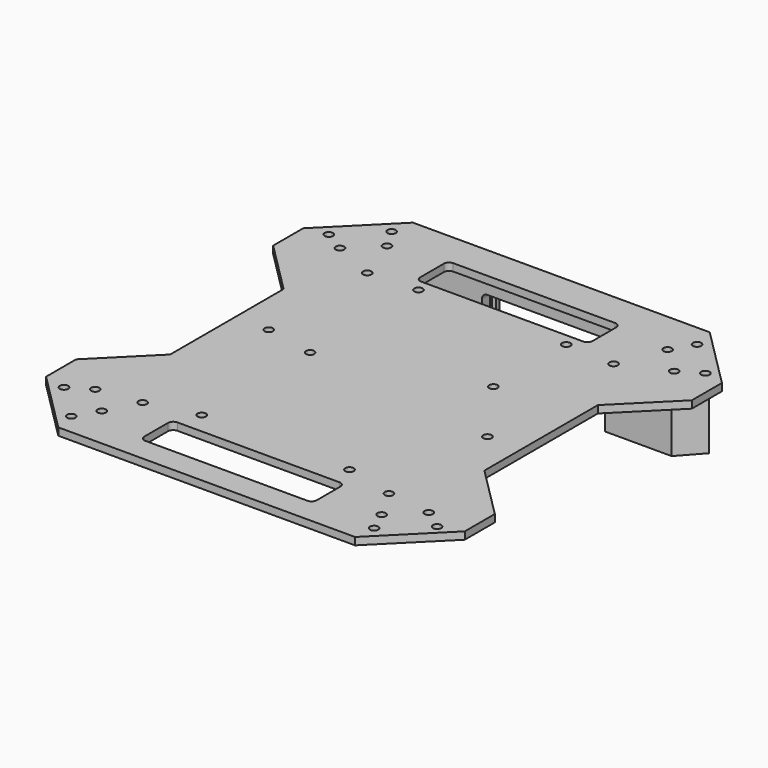
from build123d import *

# Parameters (mm, degrees)
PAD_DEPTH       = 3
PAD001_DEPTH    = 40.3
SKETCH001_R     = 1.7
HOLE_DEPTH      = 3.001
SKETCH003_R     = 1.7
HOLE001_DEPTH   = 3.001
POCKET_DEPTH    = 3.001
POCKET001_DEPTH = 195.001
SKETCH008_W     = 53
SKETCH008_H     = 3
POCKET002_DEPTH = 40.301
SKETCH009_R     = 1.7
HOLE003_DEPTH   = 3.001
POCKET003_DEPTH = 5


with BuildPart() as part:
    # Sketch → Pad (new body)
    with BuildSketch(Plane.XY):
        Polygon((15, 39.748737), (39.748737, 15), (160.251263, 15), (185, 39.748737), (185, 170.251263), (160.251263, 195), (39.748737, 195), (15, 170.251263), align=None)
    extrude(amount=PAD_DEPTH)

    # Sketch002 → Pad001 (join)
    with BuildSketch(Plane.XY):
        Polygon((40, 194.944272), (48, 186), (152, 186), (160, 194.944272), align=None)
    extrude(amount=-PAD001_DEPTH)

    # Sketch001 → Hole (cut, through all)
    with BuildSketch(Plane.XY):
        with Locations((32.599303, 42.704115)):
            Circle(SKETCH001_R)
        with Locations((43.5, 32.4)):
            Circle(SKETCH001_R)
        with Locations((24, 37.6)):
            Circle(SKETCH001_R)
        with Locations((38.184146, 23.5)):
            Circle(SKETCH001_R)
        with Locations((161.184146, 23.5)):
            Circle(SKETCH001_R)
        with Locations((176.084785, 36.840575)):
            Circle(SKETCH001_R)
        with Locations((167.984236, 42.704115)):
            Circle(SKETCH001_R)
        with Locations((168.148156, 167.066578)):
            Circle(SKETCH001_R)
        with Locations((157.247459, 177.370693)):
            Circle(SKETCH001_R)
        with Locations((162.300682, 186)):
            Circle(SKETCH001_R)
        with Locations((176.748001, 172.16978)):
            Circle(SKETCH001_R)
        with Locations((32.599303, 166.895885)):
            Circle(SKETCH001_R)
        with Locations((43.33608, 177.370693)):
            Circle(SKETCH001_R)
        with Locations((38.282857, 186)):
            Circle(SKETCH001_R)
        with Locations((24, 172)):
            Circle(SKETCH001_R)
        with Locations((157.247459, 32.229307)):
            Circle(SKETCH001_R)
    extrude(amount=HOLE_DEPTH, mode=Mode.SUBTRACT)

    # Sketch003 → Hole001 (cut, through all)
    with BuildSketch(Plane.XY):
        with Locations((70, 160)):
            Circle(SKETCH003_R)
        with Locations((130, 160)):
            Circle(SKETCH003_R)
        with Locations((70, 50)):
            Circle(SKETCH003_R)
        with Locations((130, 50)):
            Circle(SKETCH003_R)
        with Locations((70, 105)):
            Circle(SKETCH003_R)
        with Locations((130, 123)):
            Circle(SKETCH003_R)
    extrude(amount=HOLE001_DEPTH, mode=Mode.SUBTRACT)

    # Sketch006 → Pocket (cut, through all)
    with BuildSketch(Plane.XY):
        with BuildLine():
            Line((65, 179.12132), (65, 167.12132))
            ThreePointArc((65, 167.12132), (65.62132, 165.62132), (67.12132, 165))
            Line((67.12132, 165), (132.87868, 165))
            ThreePointArc((132.87868, 165), (134.37868, 165.62132), (135, 167.12132))
            Line((135, 167.12132), (135, 179.12132))
            ThreePointArc((135, 179.12132), (134.37868, 180.62132), (132.87868, 181.242641))
            Line((132.87868, 181.242641), (67.12132, 181.242641))
            ThreePointArc((67.12132, 181.242641), (65.62132, 180.62132), (65, 179.12132))
        make_face()
        with BuildLine():
            Line((65, 39.12132), (65, 27.12132))
            ThreePointArc((65, 27.12132), (65.62132, 25.62132), (67.12132, 25))
            Line((67.12132, 25), (132.87868, 25))
            ThreePointArc((132.87868, 25), (134.37868, 25.62132), (135, 27.12132))
            Line((135, 27.12132), (135, 39.12132))
            ThreePointArc((135, 39.12132), (134.37868, 40.62132), (132.87868, 41.242641))
            Line((132.87868, 41.242641), (67.12132, 41.242641))
            ThreePointArc((67.12132, 41.242641), (65.62132, 40.62132), (65, 39.12132))
        make_face()
    extrude(amount=POCKET_DEPTH, mode=Mode.SUBTRACT)

    # Sketch007 → Pocket001 (cut, through all)
    with BuildSketch(Plane.XZ):
        with BuildLine():
            Line((75, -42), (125, -42))
            Line((125, -42), (125, -9.12132))
            ThreePointArc((125, -9.12132), (124.37868, -7.62132), (122.87868, -7))
            Line((122.87868, -7), (77.12132, -7))
            ThreePointArc((77.12132, -7), (75.62132, -7.62132), (75, -9.12132))
            Line((75, -9.12132), (75, -42))
        make_face()
    extrude(amount=-POCKET001_DEPTH, mode=Mode.SUBTRACT)

    # Sketch008 → Pocket002 (cut, through all)
    with BuildSketch(Plane.XY):
        with Locations((100, 191.5)):
            Rectangle(SKETCH008_W, SKETCH008_H)
    extrude(amount=-POCKET002_DEPTH, mode=Mode.SUBTRACT)

    # Sketch009 → Hole003 (cut, through all)
    with BuildSketch(Plane.XY):
        with Locations((50, 45)):
            Circle(SKETCH009_R)
        with Locations((150, 45)):
            Circle(SKETCH009_R)
        with Locations((150, 95)):
            Circle(SKETCH009_R)
        with Locations((50, 109)):
            Circle(SKETCH009_R)
        with Locations((50, 159)):
            Circle(SKETCH009_R)
        with Locations((150, 159)):
            Circle(SKETCH009_R)
    extrude(amount=HOLE003_DEPTH, mode=Mode.SUBTRACT)

    # Sketch010 → Pocket003 (cut)
    with BuildSketch(Plane.XY):
        Polygon((15, 55), (36.213203, 76.213203), (36.213203, 133.786797), (15, 155), align=None)
        Polygon((185, 55), (163.786797, 76.213203), (163.786797, 133.786797), (185, 155), align=None)
    extrude(amount=POCKET003_DEPTH, mode=Mode.SUBTRACT)


solid = part.part
